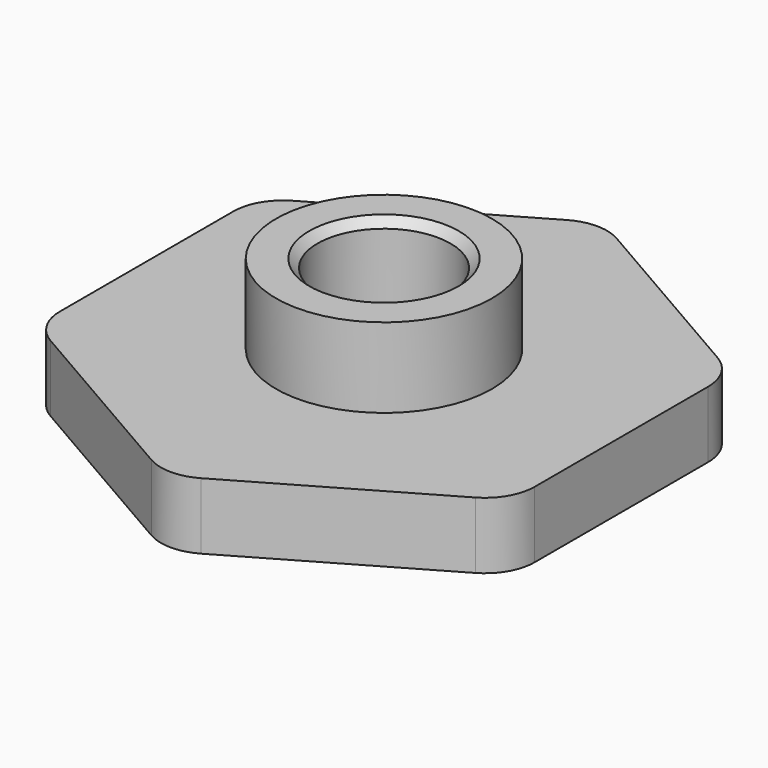
from build123d import *

# Parameters (mm, degrees)
SKETCH_R      = 4
PAD_DEPTH     = 4
SKETCH001_R   = 6.5
SKETCH001_R_2 = 4
PAD001_DEPTH  = 4.8
CHAMFER_SIZE  = 0.5
FILLET_R      = 3


with BuildPart() as part:
    # Sketch → Pad (new body)
    with BuildSketch(Plane.XY):
        Polygon((0, 16.5), (-14.289419, 8.25), (-14.289419, -8.25), (0, -16.5), (14.289419, -8.25), (14.289419, 8.25), align=None)
        Circle(SKETCH_R, mode=Mode.SUBTRACT)
    extrude(amount=PAD_DEPTH)

    # Sketch001 (on Face9 of Pad) → Pad001 (join)
    with BuildSketch(Plane.XY.offset(4)):
        Circle(SKETCH001_R)
        Circle(SKETCH001_R_2, mode=Mode.SUBTRACT)
    extrude(amount=PAD001_DEPTH)

    # Chamfer
    chamfer_edges = [part.edges().sort_by_distance(p)[0] for p in [
        (-4, 0, 8.8),
    ]]
    chamfer(chamfer_edges, length=CHAMFER_SIZE)

    # Fillet
    fillet_edges = [part.edges().sort_by_distance(p)[0] for p in [
        (0, -16.5, 2),
        (14.289419, -8.25, 2),
        (14.289419, 8.25, 2),
        (-14.289419, -8.25, 2),
        (-14.289419, 8.25, 2),
        (0, 16.5, 2),
    ]]
    fillet(fillet_edges, radius=FILLET_R)


solid = part.part
